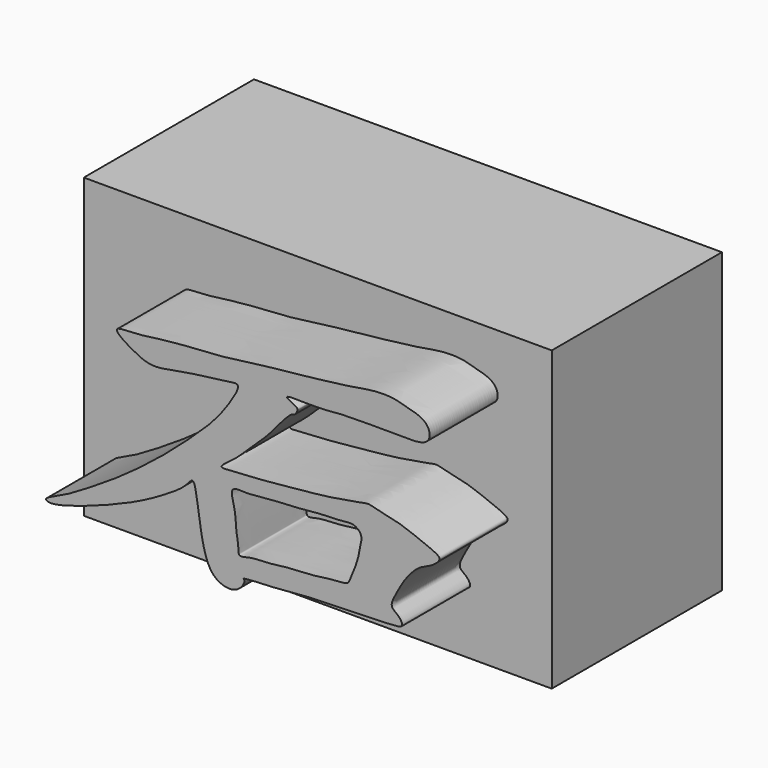
from build123d import *

# Parameters (mm, degrees)
F0_W     = 13.97
F0_H     = 8.89
F2_DEPTH = 6.35
F3_DEPTH = 2.54


with BuildPart() as f2:
    # F0 (on Front) → F2 (new body)
    with BuildSketch(Plane.XZ):
        with Locations((-6.985, 4.445)):
            Rectangle(F0_W, F0_H)
    extrude(amount=-F2_DEPTH)

    # F1 (on face) → F3 (join)
    with BuildSketch(Plane.XZ):
        with BuildLine():
            add(Edge.make_bspline(
                [(-10.9506319277, 6.9117319072), (-10.9215560474, 6.983518267), (-10.2547346118, 6.9660963959), (-9.367758101, 7.1433940227), (-7.9185912824, 7.1851071991), (-6.689714294, 7.3841728469), (-4.8868113589, 7.5557997044), (-3.8377260041, 7.6972043638), (-3.3213475749, 7.8035150988), (-2.7127249464, 7.8129303392), (-2.3916203573, 7.7042069639), (-1.9561887486, 7.6109162225), (-1.6536148081, 7.4278615686), (-1.5709428496, 7.0701240881), (-1.8288826538, 6.8584151125), (-2.403695532, 6.8770174132), (-3.1340933143, 6.8694787458), (-3.8076527689, 6.8757731813), (-4.3844355289, 6.8591849773), (-4.9569276105, 6.7837190789), (-6.2109637203, 6.8651928855), (-5.5156345021, 6.612292872), (-5.5717872123, 6.5148599287), (-5.6209382623, 6.391471039), (-5.7575867164, 6.4011663462), (-6.138570176, 5.9652679377), (-6.4863280666, 5.531954296), (-7.0232373526, 5.0537415663), (-7.4038542853, 4.6495674056), (-8.0395765979, 4.2413284106), (-7.2810171381, 4.3398879518), (-6.7084563587, 4.3498288445), (-5.8440555706, 4.4437701063), (-4.8774825698, 4.5321603632), (-4.2061372706, 4.6297454878), (-3.6477737118, 4.7362433769), (-3.4194780831, 4.7840533864), (-3.1428798732, 4.6807786649), (-2.5065208313, 4.5834484379), (-1.8430977706, 4.2976981863), (-1.2594357761, 4.082518515), (-1.3631089077, 3.9028569885), (-1.6087207628, 3.7182786601), (-1.9493493943, 3.6180170562), (-2.3709455446, 3.1485270431), (-2.6002930279, 2.6979342805), (-2.8317199438, 2.2817727893), (-2.5257812979, 2.1439585154), (-2.3714750031, 1.8538560443), (-2.6488560759, 1.8254081798), (-2.9719059979, 1.8072052426), (-3.6415056045, 1.7884031926), (-4.4548139649, 1.7718458823), (-5.3818819698, 1.7414936157), (-6.2170979735, 1.6379693619), (-7.2489153534, 1.6255168384), (-7.0983275234, 1.5447125643), (-7.3108024117, 1.1895606724), (-7.7640218892, 1.1687784583), (-8.2241047085, 1.4558533614), (-8.4417561904, 2.3520025844), (-8.5422850172, 3.1359712876), (-8.6498998874, 3.8109641292), (-8.8939666845, 3.4401876975), (-9.4285489759, 3.0891797074), (-10.1554322638, 2.6676188525), (-11.0040835246, 2.2934247707), (-11.9913313094, 1.9159335695), (-12.9407255353, 1.6468427919), (-13.1389603174, 1.7931627328), (-12.5786959074, 2.0072810943), (-11.8914800618, 2.4121908198), (-10.8300130342, 3.0749348361), (-9.7265473143, 3.9096899429), (-8.8728617175, 4.6577142404), (-8.0374888038, 5.4402201647), (-7.5990757136, 6.0350686213), (-7.1958108562, 6.7173436783), (-7.7884689384, 6.5803740466), (-8.8707215293, 6.4884429328), (-9.8560768752, 6.2355517483), (-10.3327767681, 6.4475023705), (-10.7206020232, 6.6525559064), (-10.9713517268, 6.8605761404), (-10.9506319277, 6.9117319072)],
                knots=[0, 0, 0, 0, 0.0122487609, 0.0284715223, 0.0474363434, 0.0657567977, 0.0874174317, 0.1038157271, 0.1154268376, 0.1276180327, 0.1370787081, 0.1476584909, 0.157048587, 0.165902823, 0.1742064301, 0.1862008366, 0.2001561317, 0.2133565209, 0.2251238486, 0.2387174026, 0.2530747048, 0.2626434305, 0.2671711212, 0.2726377204, 0.2778912009, 0.2896261603, 0.3021244632, 0.3154514794, 0.3283688398, 0.3391480727, 0.3500051046, 0.3630218455, 0.3778988956, 0.3937869226, 0.4072478409, 0.4191107169, 0.4265684306, 0.4349176695, 0.4476799254, 0.462086418, 0.4736169906, 0.4793102653, 0.4880781143, 0.49765302, 0.51013785, 0.5220709021, 0.531931944, 0.5404453753, 0.5483146632, 0.5552874755, 0.5646296227, 0.5776374224, 0.5923109124, 0.6075047544, 0.6235381284, 0.6380531873, 0.6414384297, 0.6506740737, 0.6611008575, 0.6722864445, 0.6873494344, 0.7026268327, 0.7135490666, 0.7216287777, 0.7347514034, 0.7495175382, 0.7648880016, 0.7820671163, 0.7975995543, 0.8026616646, 0.8134774164, 0.8283941966, 0.8463583978, 0.8652991088, 0.8825605239, 0.8994813094, 0.9140476338, 0.9258789177, 0.9354836064, 0.9529519343, 0.9690376213, 0.9801377731, 0.9912713953, 1, 1, 1, 1], degree=3))
        make_face()
        with BuildLine():
            add(Edge.make_bspline(
                [(-7.4906088412, 3.827709239), (-7.5574065937, 3.7453948109), (-7.398398844, 3.3181218314), (-7.4069947176, 2.799698796), (-7.3073477614, 2.3882960332), (-7.3404984302, 2.0979289025), (-6.9440987185, 2.2394007), (-6.479721876, 2.2200165272), (-5.8235479368, 2.3310422883), (-5.1940161891, 2.324810663), (-4.5324076501, 2.4456849075), (-4.0365581553, 2.4412804142), (-3.9884656574, 2.6473418888), (-3.7668731793, 3.1019242518), (-3.6788247334, 3.5873806993), (-3.6342081946, 3.8113246686), (-3.6974940786, 3.9712926445), (-3.9054698864, 4.118060423), (-4.2731198028, 4.0470805145), (-4.8446408608, 4.0558623113), (-5.5312865222, 3.9697969256), (-6.1405166588, 3.9572113234), (-6.8426892538, 3.8842723518), (-7.125290262, 3.864149319), (-7.4345784176, 3.8967551589), (-7.4906088412, 3.827709239)],
                knots=[0, 0, 0, 0, 0.0459118593, 0.0962163594, 0.1398719947, 0.1690883561, 0.2061340093, 0.2531225131, 0.3069842608, 0.3602374948, 0.4160534374, 0.4597090477, 0.4866991231, 0.5342281562, 0.5818083303, 0.6126248116, 0.6387335847, 0.6701876605, 0.7098607252, 0.7605706964, 0.8158207095, 0.8690739623, 0.9238491902, 0.9614888103, 1, 1, 1, 1], degree=3))
        make_face(mode=Mode.SUBTRACT)
    extrude(amount=F3_DEPTH)


solid = f2.part
